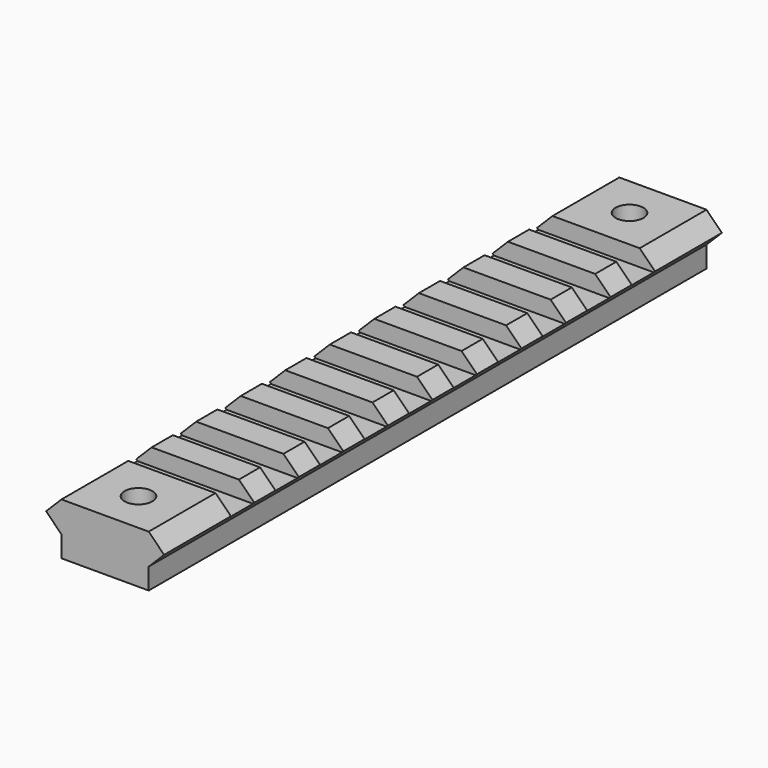
from build123d import *

# Parameters (mm, degrees)
F1_DEPTH = 125.25
F2_W     = 55.821885
F2_H     = 5.25
F3_DEPTH = 3
F4_R     = 2.5
F5_DEPTH = 25


with BuildPart() as f1:
    # F0 (on Front) → F1 (new body)
    with BuildSketch(Plane.XZ):
        Polygon((0, 3.79), (0, 0), (15.67, 0), (15.67, 3.79), (18.435, 6.555), (15.67, 9.32), (0, 9.32), (-2.765, 6.555), align=None)
    extrude(amount=F1_DEPTH)

    # F2 (on face) → F3 (cut)
    with BuildSketch(Plane.XY.offset(9.32)):
        with Locations((8.211463, -17.625)):
            Rectangle(F2_W, F2_H)
        with Locations((8.211463, -27.625)):
            Rectangle(F2_W, F2_H)
        with Locations((8.211463, -37.625)):
            Rectangle(F2_W, F2_H)
        with Locations((8.211463, -47.625)):
            Rectangle(F2_W, F2_H)
        with Locations((8.211463, -57.625)):
            Rectangle(F2_W, F2_H)
        with Locations((8.211463, -67.625)):
            Rectangle(F2_W, F2_H)
        with Locations((8.211463, -77.625)):
            Rectangle(F2_W, F2_H)
        with Locations((8.211463, -87.625)):
            Rectangle(F2_W, F2_H)
        with Locations((8.211463, -97.625)):
            Rectangle(F2_W, F2_H)
        with Locations((8.211463, -107.625)):
            Rectangle(F2_W, F2_H)
    extrude(amount=-F3_DEPTH, mode=Mode.SUBTRACT)

    # F4 (on face) → F5 (cut)
    with BuildSketch(Plane.XY.offset(9.32)):
        with Locations((7.835, -7.5)):
            Circle(F4_R)
        with Locations((7.835, -117.75)):
            Circle(F4_R)
    extrude(amount=-F5_DEPTH, mode=Mode.SUBTRACT)


solid = f1.part
